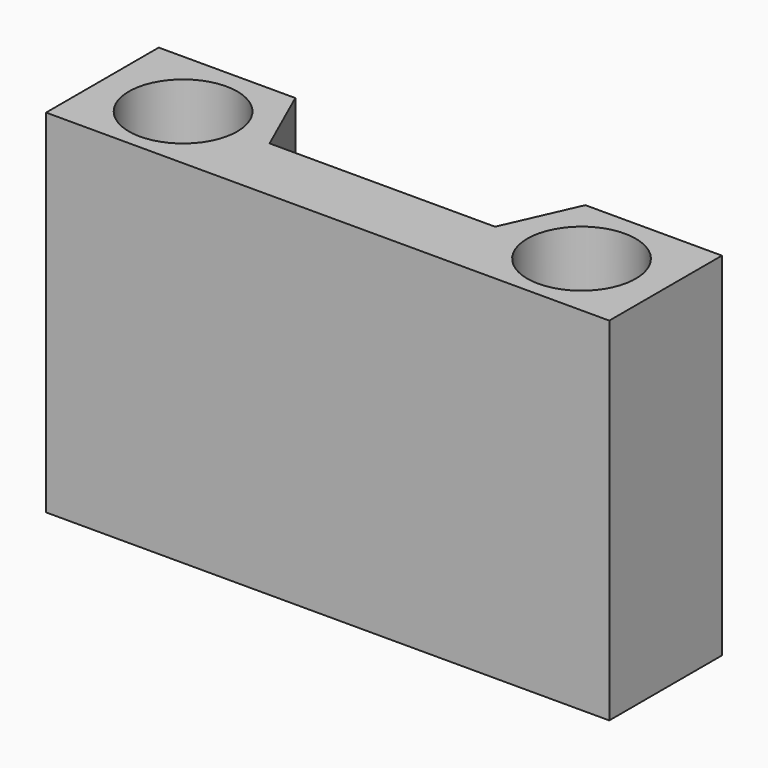
from build123d import *

# Parameters (mm, degrees)
F0_R     = 7.7
F1_DEPTH = 50


with BuildPart() as f1:
    # F0 (on Top) → F1 (new body)
    with BuildSketch(Plane.XY):
        Polygon((-40, 20), (-40, 0), (40, 0), (40, 20), (20.6, 20), (16.014145, 9.7), (-16.014145, 9.7), (-20.6, 20), align=None)
        with Locations((-28.3, 9.7)):
            Circle(F0_R, mode=Mode.SUBTRACT)
        with BuildLine():
            ThreePointArc((36, 9.7), (28.3, 2), (20.6, 9.7))
            ThreePointArc((20.6, 9.7), (28.3, 17.4), (36, 9.7))
        make_face(mode=Mode.SUBTRACT)
    extrude(amount=F1_DEPTH)


solid = f1.part
